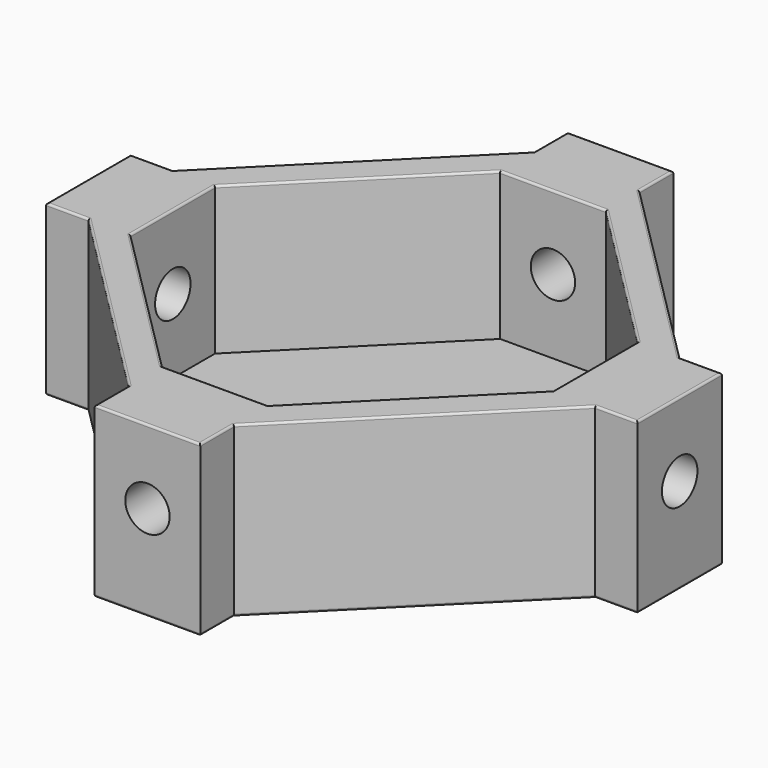
from build123d import *

# Parameters (mm, degrees)
PAD_DEPTH       = 16
POCKET_DEPTH    = 14
SKETCH002_R     = 2.1
POCKET001_DEPTH = 100
SKETCH003_R     = 2.1
POCKET002_DEPTH = 100
FILLET_R        = 0.2
FILLET001_R     = 0.2
FILLET002_R     = 0.2


with BuildPart() as part:
    # Sketch → Pad (new body)
    with BuildSketch(Plane.XY):
        Polygon((-5, 28), (5, 28), (5, 24), (24, 5), (28, 5), (28, -5), (24, -5), (5, -24), (5, -28), (-5, -28), (-5, -24), (-24, -5), (-28, -5), (-28, 5), (-24, 5), (-5, 24), align=None)
    extrude(amount=PAD_DEPTH)

    # Sketch001 (on Face18 of Pad) → Pocket (cut)
    with BuildSketch(Plane.XY.offset(16)):
        Polygon((5, 20), (-5, 20), (-20, 5), (-20, -5), (-5, -20), (5, -20), (20, -5), (20, 5), align=None)
    extrude(amount=-POCKET_DEPTH, mode=Mode.SUBTRACT)

    # Sketch002 (on Face17 of Pocket) → Pocket001 (cut)
    with BuildSketch(Plane.XZ.offset(28)):
        with Locations((0, 9)):
            Circle(SKETCH002_R)
    extrude(amount=-POCKET001_DEPTH, mode=Mode.SUBTRACT)

    # Sketch003 (on Face13 of Pocket001) → Pocket002 (cut)
    with BuildSketch(Plane.YZ.offset(28)):
        with Locations((0, 9)):
            Circle(SKETCH003_R)
    extrude(amount=-POCKET002_DEPTH, mode=Mode.SUBTRACT)

    # Fillet
    fillet_edges = [part.edges().sort_by_distance(p)[0] for p in [
        (28, 0, 16),
        (26, 5, 16),
        (14.5, 14.5, 16),
        (26, -5, 16),
        (14.5, -14.5, 16),
        (5, -26, 16),
        (0, -28, 16),
        (-5, -26, 16),
        (-14.5, -14.5, 16),
        (-26, -5, 16),
        (-28, 0, 16),
        (-26, 5, 16),
        (-14.5, 14.5, 16),
        (-5, 26, 16),
        (0, 28, 16),
        (5, 26, 16),
    ]]
    fillet(fillet_edges, radius=FILLET_R)

    # Fillet001
    fillet001_edges = [part.edges().sort_by_distance(p)[0] for p in [
        (12.5, 12.5, 16),
        (20, 0, 16),
        (12.5, -12.5, 16),
        (0, -20, 16),
        (-12.5, -12.5, 16),
        (-20, 0, 16),
        (-12.5, 12.5, 16),
        (0, 20, 16),
    ]]
    fillet(fillet001_edges, radius=FILLET001_R)

    # Fillet002
    fillet002_edges = [part.edges().sort_by_distance(p)[0] for p in [
        (0, 28, 0),
        (-14.5, 14.5, 0),
        (-5, 26, 0),
        (5, 26, 0),
        (14.5, 14.5, 0),
        (26, 5, 0),
        (28, 0, 0),
        (26, -5, 0),
        (14.5, -14.5, 0),
        (5, -26, 0),
        (0, -28, 0),
        (-5, -26, 0),
        (-14.5, -14.5, 0),
        (-26, -5, 0),
        (-28, 0, 0),
        (-26, 5, 0),
    ]]
    fillet(fillet002_edges, radius=FILLET002_R)


solid = part.part
